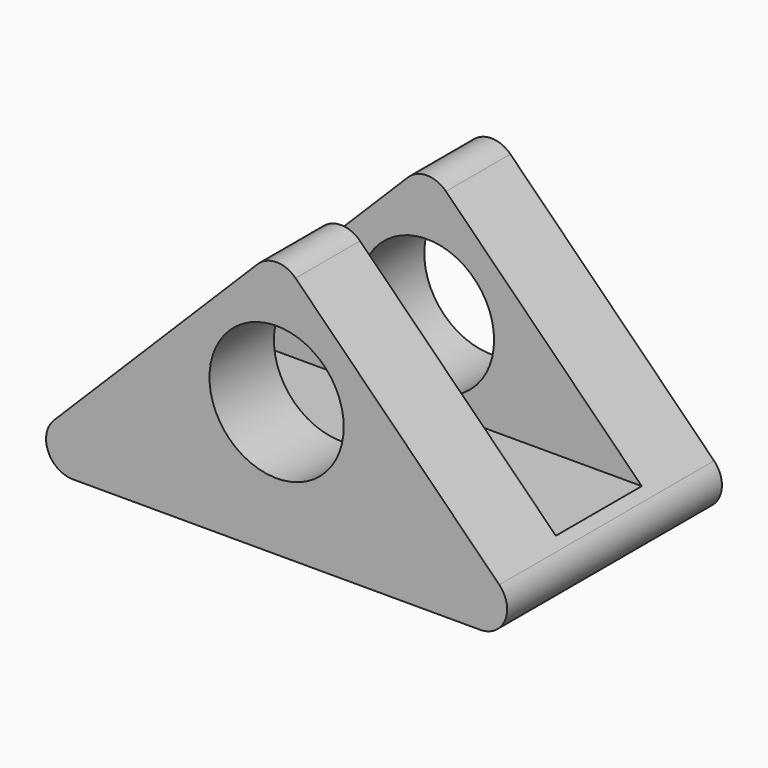
from build123d import *

# Parameters (mm, degrees)
F0_R     = 3.175
F1_DEPTH = 12.7
F2_W     = 5.08
F2_H     = 10.16
F3_DEPTH = 25.401
F4_R     = 1.27


with BuildPart() as f1:
    # F0 (on Front) → F1 (new body)
    with BuildSketch(Plane.XZ):
        Polygon((12.7, 12.7), (0, 0), (25.4, 0), align=None)
        with Locations((12.7, 6.35)):
            Circle(F0_R, mode=Mode.SUBTRACT)
    extrude(amount=F1_DEPTH)

    # F2 (on Right) → F3 (cut, through all)
    with BuildSketch(Plane.YZ):
        with Locations((-6.35, 7.62)):
            Rectangle(F2_W, F2_H)
    extrude(amount=F3_DEPTH, mode=Mode.SUBTRACT)

    # F4
    f4_edges = [f1.edges().sort_by_distance(p)[0] for p in [
        (12.7, -10.795, 12.7),
        (12.7, -1.905, 12.7),
        (0, -6.35, 0),
        (25.4, -6.35, 0),
    ]]
    fillet(f4_edges, radius=F4_R)


solid = f1.part
